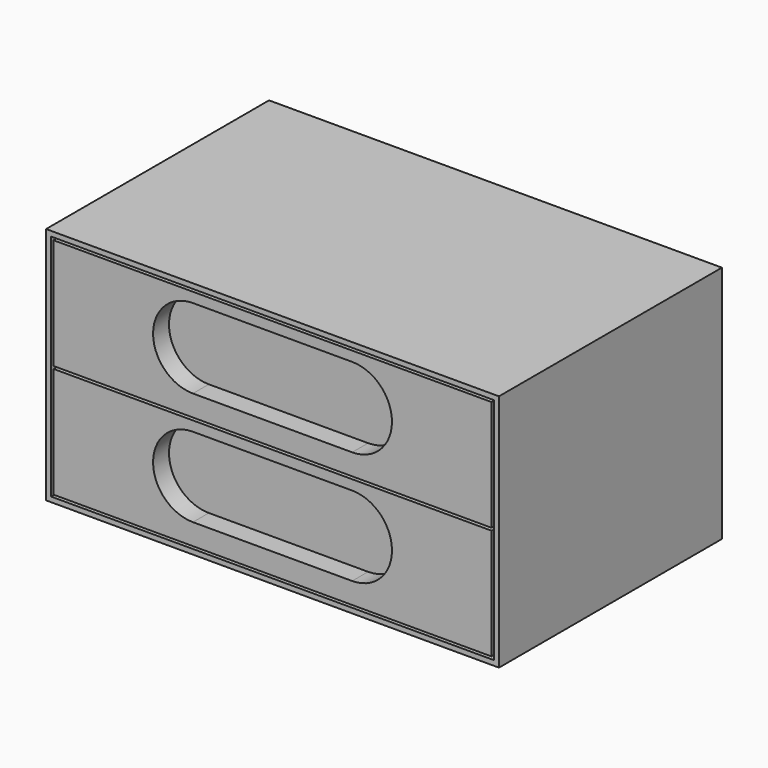
from build123d import *

# Parameters (mm, degrees)
F0_W     = 577.85
F0_H     = 355.6
F1_DEPTH = 304.8
F2_W     = 565.15
F2_H     = 292.1
F3_DEPTH = 352.425
F4_W     = 558.8
F4_H     = 141.224
F5_DEPTH = 352.425
F7_DEPTH = 25.4


with BuildPart() as f1:
    # F0 (on Top) → F1 (new body)
    with BuildSketch(Plane.XY):
        Rectangle(F0_W, F0_H)
    extrude(amount=F1_DEPTH)

    # F2 (on face) → F3 (cut)
    with BuildSketch(Plane.XZ.offset(177.8)):
        with Locations((0, 152.4)):
            Rectangle(F2_W, F2_H)
    extrude(amount=-F3_DEPTH, mode=Mode.SUBTRACT)

    # F4 (on face) → F5 (join)
    with BuildSketch(Plane.XZ.offset(-174.625)):
        with Locations((0, 224.663)):
            Rectangle(F4_W, F4_H)
        with Locations((0, 80.137)):
            Rectangle(F4_W, F4_H)
    extrude(amount=F5_DEPTH)

    # F6 (on face) → F7 (cut)
    with BuildSketch(Plane.XZ.offset(177.8)):
        with BuildLine():
            Line((101.6, 138.049), (0, 138.049))
            Line((0, 138.049), (0, 36.449))
            Line((0, 36.449), (101.6, 36.449))
            ThreePointArc((101.6, 36.449), (152.4, 87.249), (101.6, 138.049))
        make_face()
        with BuildLine():
            Line((0, 36.449), (0, 138.049))
            Line((0, 138.049), (-101.6, 138.049))
            ThreePointArc((-101.6, 138.049), (-152.4, 87.249), (-101.6, 36.449))
            Line((-101.6, 36.449), (0, 36.449))
        make_face()
        with BuildLine():
            Line((0, 282.575), (-101.6, 282.575))
            ThreePointArc((-101.6, 282.575), (-152.4, 231.775), (-101.6, 180.975))
            Line((-101.6, 180.975), (0, 180.975))
            Line((0, 180.975), (0, 282.575))
        make_face()
        with BuildLine():
            Line((101.6, 282.575), (0, 282.575))
            Line((0, 282.575), (0, 180.975))
            Line((0, 180.975), (101.6, 180.975))
            ThreePointArc((101.6, 180.975), (152.4, 231.775), (101.6, 282.575))
        make_face()
    extrude(amount=-F7_DEPTH, mode=Mode.SUBTRACT)


solid = f1.part
